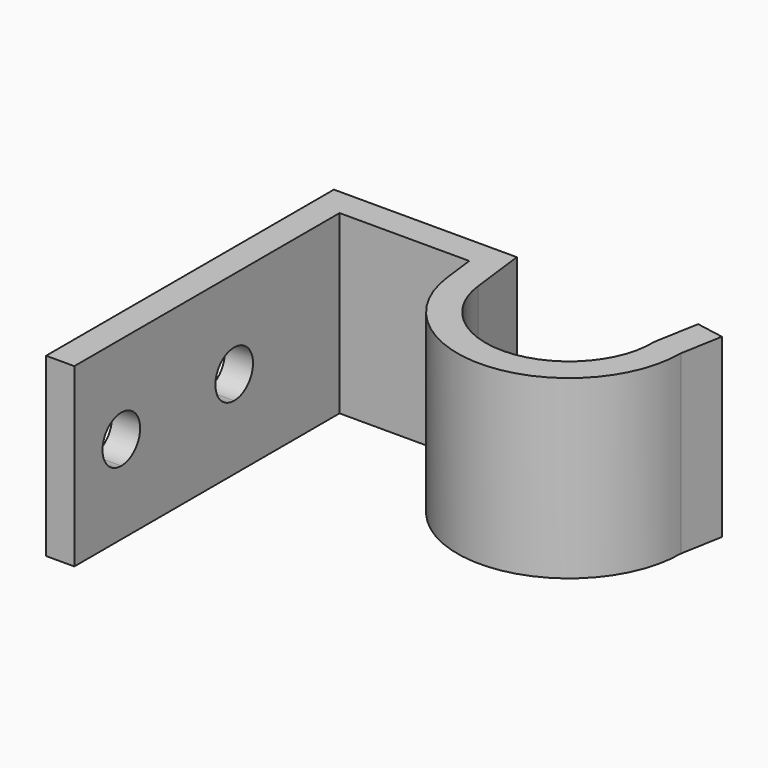
from build123d import *

# Parameters (mm, degrees)
F1_DEPTH      = 19.05
F3_DEPTH      = 5.1562
F3_DEPTH_BACK = 7.5946


with BuildPart() as f1:
    # F0 (on Top) → F1 (new body)
    with BuildSketch(Plane.XY):
        with BuildLine():
            Line((19.7552217001, 0), (0, 0))
            Line((0, 0), (0, -38.862))
            Line((0, -38.862), (3.048, -38.862))
            Line((3.048, -38.862), (3.048, -3.048))
            Line((3.048, -3.048), (17.0587162428, -3.048))
            Line((17.0587162428, -3.048), (17.489004921, -6.5509581427))
            ThreePointArc((17.489004921, -6.5509581427), (30.2050622684, -17.122219551), (41.5289970541, -5.0715688135))
            Line((41.5289970541, -5.0715688135), (42.3381504625, -0.5352281765))
            Line((42.3381504625, -0.5352281765), (39.3375113974, 0))
            Line((39.3375113974, 0), (38.4773215245, -4.8224653511))
            ThreePointArc((38.4773215245, -4.8224653511), (30.1431857427, -14.0713845278), (20.5142668357, -6.1793476645))
            Line((20.5142668357, -6.1793476645), (19.7552217001, 0))
        make_face()
    extrude(amount=F1_DEPTH)

    # F2 (on face) → F3 (cut, two sides)
    with BuildSketch(Plane(origin=(0, 0, 0), x_dir=(0, -1, 0), z_dir=(-1, 0, 0))) as f3_sk:
        with BuildLine():
            ThreePointArc((19.812, 9.525), (19.0680512242, 11.3210512242), (17.272, 12.065))
            Line((17.272, 12.065), (17.272, 6.985))
            ThreePointArc((17.272, 6.985), (19.0680512242, 7.7289487758), (19.812, 9.525))
        make_face()
        with BuildLine():
            Line((17.272, 6.985), (17.272, 12.065))
            ThreePointArc((17.272, 12.065), (14.732, 9.525), (17.272, 6.985))
        make_face()
        with BuildLine():
            Line((32.512, 6.985), (32.512, 12.065))
            ThreePointArc((32.512, 12.065), (29.972, 9.525), (32.512, 6.985))
        make_face()
        with BuildLine():
            ThreePointArc((35.052, 9.525), (34.3080512242, 11.3210512242), (32.512, 12.065))
            Line((32.512, 12.065), (32.512, 6.985))
            ThreePointArc((32.512, 6.985), (34.3080512242, 7.7289487758), (35.052, 9.525))
        make_face()
    extrude(amount=-F3_DEPTH, mode=Mode.SUBTRACT)
    extrude(f3_sk.sketch, amount=F3_DEPTH_BACK, mode=Mode.SUBTRACT)


solid = f1.part
